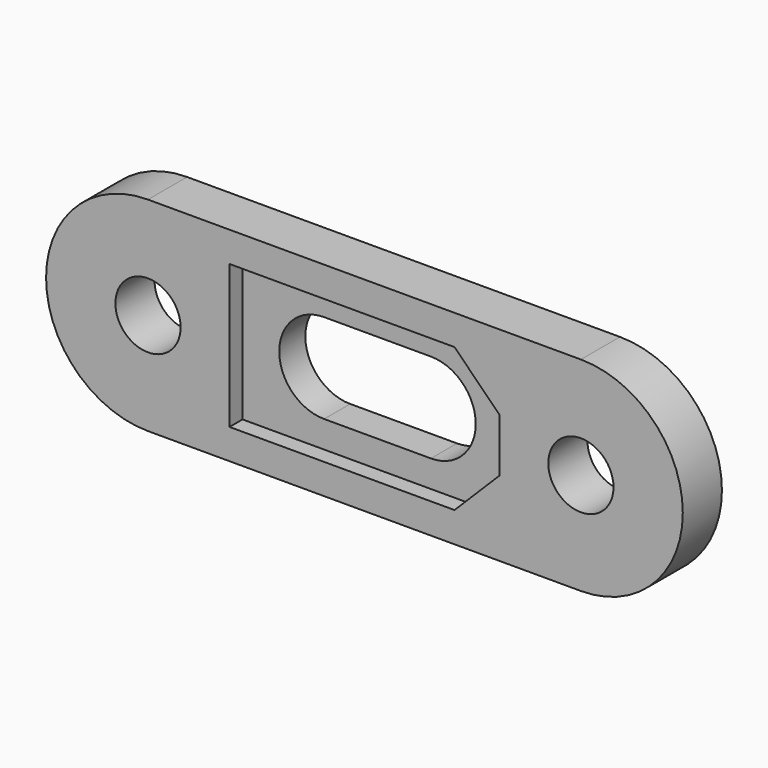
from build123d import *

# Parameters (mm, degrees)
F0_R     = 2
F1_DEPTH = 3
F3_DEPTH = 1


with BuildPart() as f1:
    # F0 (on Front) → F1 (new body)
    with BuildSketch(Plane.XZ):
        with BuildLine():
            Line((26.55, 12.5), (0, 12.5))
            ThreePointArc((0, 12.5), (-6.25, 6.25), (0, 0))
            Line((0, 0), (26.55, 0))
            ThreePointArc((26.55, 0), (32.8, 6.25), (26.55, 12.5))
        make_face()
        with Locations((0, 6.25)):
            Circle(F0_R, mode=Mode.SUBTRACT)
        with BuildLine():
            ThreePointArc((10, 3.5), (7.25, 6.25), (10, 9))
            Line((10, 9), (16.55, 9))
            ThreePointArc((16.55, 9), (19.3, 6.25), (16.55, 3.5))
            Line((16.55, 3.5), (10, 3.5))
        make_face(mode=Mode.SUBTRACT)
        with Locations((26.55, 6.25)):
            Circle(F0_R, mode=Mode.SUBTRACT)
    extrude(amount=F1_DEPTH)

    # F2 (on face) → F3 (cut)
    with BuildSketch(Plane.XZ.offset(3)):
        Polygon((21.55, 4.6), (21.55, 7.9), (18.8, 10.65), (5, 10.65), (5, 1.85), (18.8, 1.85), align=None)
        with BuildLine():
            Line((16.55, 3.5), (10, 3.5))
            ThreePointArc((10, 3.5), (7.25, 6.25), (10, 9))
            Line((10, 9), (16.55, 9))
            ThreePointArc((16.55, 9), (19.3, 6.25), (16.55, 3.5))
        make_face(mode=Mode.SUBTRACT)
    extrude(amount=-F3_DEPTH, mode=Mode.SUBTRACT)


solid = f1.part
